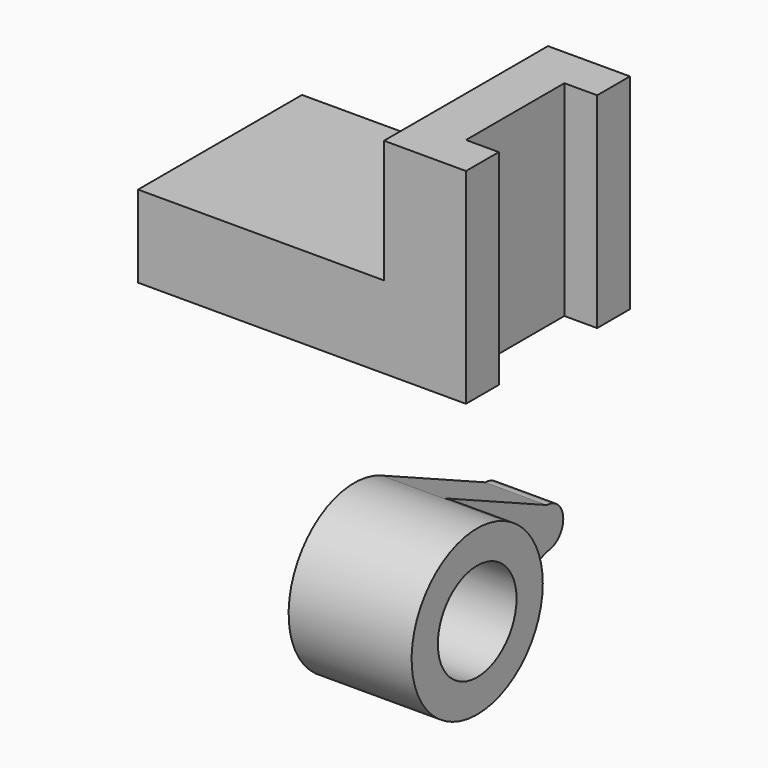
from build123d import *

# Parameters (mm, degrees)
F0_W     = 60
F0_H     = 50
F1_DEPTH = 20
F2_DEPTH = 50
F3_R     = 12
F4_DEPTH = 30
F5_DEPTH = 15


with BuildPart() as f1:
    # F0 (on Top) → F1 (new body)
    with BuildSketch(Plane.XY):
        with Locations((-50, 19.083665)):
            Rectangle(F0_W, F0_H)
    extrude(amount=F1_DEPTH)

    # F0 (on Top) → F2 (join)
    with BuildSketch(Plane.XY):
        Polygon((-12.151394, 44.083665), (-20, 44.083665), (-20, -5.916335), (0, -5.916335), (0, 4.083665), (-8, 4.083665), (-8, 34.083665), (0, 34.083665), (0, 44.083665), align=None)
    extrude(amount=F2_DEPTH)


with BuildPart() as f4:
    # F3 (on Right) → F4 (new body)
    with BuildSketch(Plane.YZ):
        with BuildLine():
            ThreePointArc((-30.939841, -40.942521), (-22.952959, -33.571761), (-20, -23.112392))
            ThreePointArc((-20, -23.112392), (-23.192993, -12.271519), (-31.752453, -4.892129))
            ThreePointArc((-31.752453, -4.892129), (-59.994921, -23.563097), (-30.939841, -40.942521))
        make_face()
        with Locations((-40, -23.112392)):
            Circle(F3_R, mode=Mode.SUBTRACT)
    extrude(amount=F4_DEPTH)

    # F3 (on Right) → F5 (join)
    with BuildSketch(Plane.YZ):
        with BuildLine():
            ThreePointArc((-31.752453, -4.892129), (-23.192993, -12.271519), (-20, -23.112392))
            ThreePointArc((-20, -23.112392), (-22.952959, -33.571761), (-30.939841, -40.942521))
            Line((-30.939841, -40.942521), (0, -29.26513))
            ThreePointArc((0, -29.26513), (-5, -24.26513), (0, -19.26513))
            Line((0, -19.26513), (-31.752453, -4.892129))
        make_face()
        with BuildLine():
            ThreePointArc((5, -24.26513), (3.535534, -20.729596), (0, -19.26513))
            ThreePointArc((0, -19.26513), (-5, -24.26513), (0, -29.26513))
            ThreePointArc((0, -29.26513), (3.535534, -27.800664), (5, -24.26513))
        make_face()
    extrude(amount=F5_DEPTH)


solid = Compound([f1.part, f4.part])
